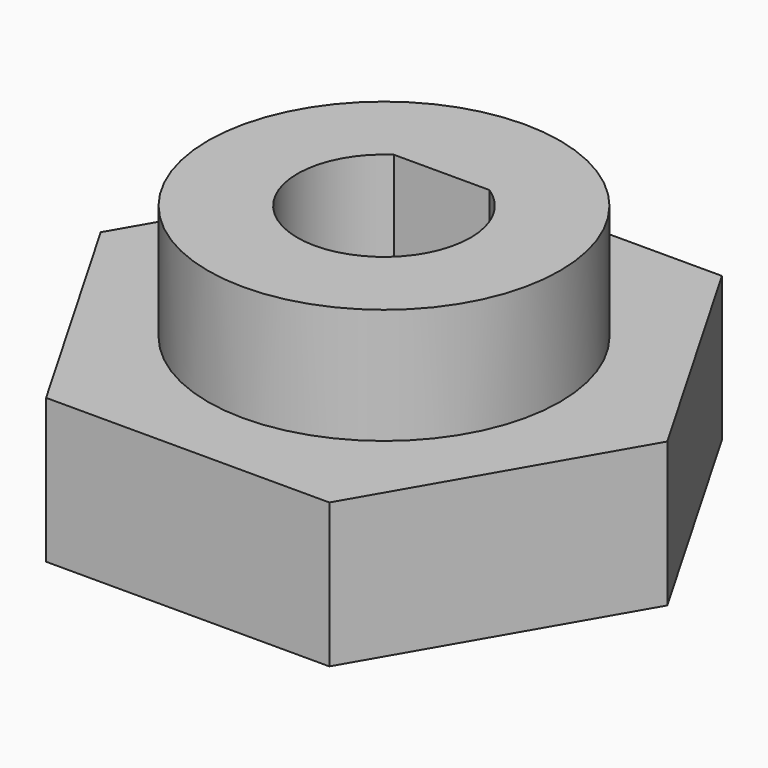
from build123d import *

# Parameters (mm, degrees)
SKETCH_R      = 3
PAD_DEPTH     = 5
SKETCH001_R   = 6.1
SKETCH001_R_2 = 3
PAD001_DEPTH  = 10
PAD002_DEPTH  = 13
SKETCH003_R   = 6.1
POCKET_DEPTH  = 6


with BuildPart() as part:
    # Sketch → Pad (new body)
    with BuildSketch(Plane.XY):
        Polygon((9.814955, 0), (4.907477, 8.5), (-4.907477, 8.5), (-9.814955, 0), (-4.907477, -8.5), (4.907477, -8.5), align=None)
        Circle(SKETCH_R, mode=Mode.SUBTRACT)
    extrude(amount=PAD_DEPTH)

    # Sketch001 (on Face9 of Pad) → Pad001 (join)
    with BuildSketch(Plane.XY.offset(5)):
        Circle(SKETCH001_R)
        Circle(SKETCH001_R_2, mode=Mode.SUBTRACT)
    extrude(amount=PAD001_DEPTH)

    # Sketch002 (on Face12 of Pad001) → Pad002 (join)
    with BuildSketch(Plane.XY.offset(15)):
        with BuildLine():
            Line((-1.658312, 2.5), (1.658312, 2.5))
            ThreePointArc((1.658312, 2.5), (0, 3), (-1.658312, 2.5))
        make_face()
    extrude(amount=-PAD002_DEPTH)

    # Sketch003 (on Face15 of Pad002) → Pocket (cut)
    with BuildSketch(Plane.XY.offset(15)):
        Circle(SKETCH003_R)
    extrude(amount=-POCKET_DEPTH, mode=Mode.SUBTRACT)


solid = part.part
